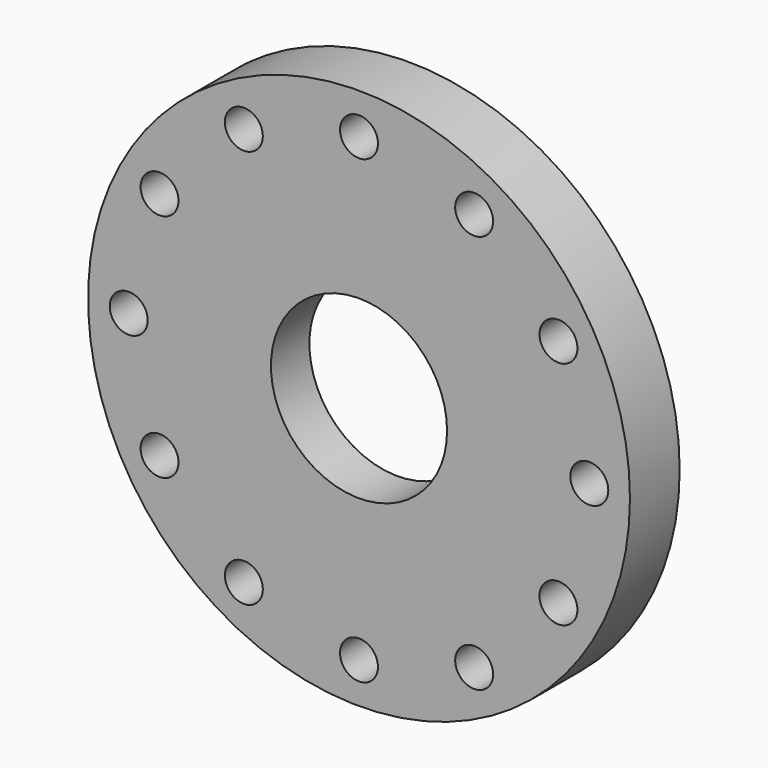
from build123d import *

# Parameters (mm, degrees)
F0_R     = 158.75
F0_R_2   = 11.1125
F1_DEPTH = 36.4236
F2_R     = 114.99977
F2_R_2   = 101.6
F3_DEPTH = 6.35
F2_R_3   = 51.59375
F4_DEPTH = 8.255
F5_DEPTH = 36.4236


with BuildPart() as f1:
    # F0 (on Front) → F1 (new body)
    with BuildSketch(Plane.XZ):
        Circle(F0_R)
        with Locations((-67.46875, -116.859303)):
            Circle(F0_R_2, mode=Mode.SUBTRACT)
        with Locations((-116.859303, -67.46875)):
            Circle(F0_R_2, mode=Mode.SUBTRACT)
        with Locations((0, -134.9375)):
            Circle(F0_R_2, mode=Mode.SUBTRACT)
        with Locations((67.46875, -116.859303)):
            Circle(F0_R_2, mode=Mode.SUBTRACT)
        with Locations((116.859303, -67.46875)):
            Circle(F0_R_2, mode=Mode.SUBTRACT)
        with Locations((-134.9375, 0)):
            Circle(F0_R_2, mode=Mode.SUBTRACT)
        with Locations((-116.859303, 67.46875)):
            Circle(F0_R_2, mode=Mode.SUBTRACT)
        with Locations((-67.46875, 116.859303)):
            Circle(F0_R_2, mode=Mode.SUBTRACT)
        with Locations((134.9375, 0)):
            Circle(F0_R_2, mode=Mode.SUBTRACT)
        with Locations((116.859303, 67.46875)):
            Circle(F0_R_2, mode=Mode.SUBTRACT)
        with Locations((67.46875, 116.859303)):
            Circle(F0_R_2, mode=Mode.SUBTRACT)
        with Locations((0, 134.9375)):
            Circle(F0_R_2, mode=Mode.SUBTRACT)
    extrude(amount=F1_DEPTH)

    # F2 (on face) → F3 (cut)
    with BuildSketch(Plane.XZ):
        Circle(F2_R)
        Circle(F2_R_2, mode=Mode.SUBTRACT)
    extrude(amount=F3_DEPTH, mode=Mode.SUBTRACT)

    # F2 (on face) → F4 (cut)
    with BuildSketch(Plane.XZ):
        Circle(F2_R_2)
        Circle(F2_R_3, mode=Mode.SUBTRACT)
    extrude(amount=F4_DEPTH, mode=Mode.SUBTRACT)

    # F2 (on face) → F5 (cut)
    with BuildSketch(Plane.XZ):
        Circle(F2_R_3)
    extrude(amount=F5_DEPTH, mode=Mode.SUBTRACT)


solid = f1.part
